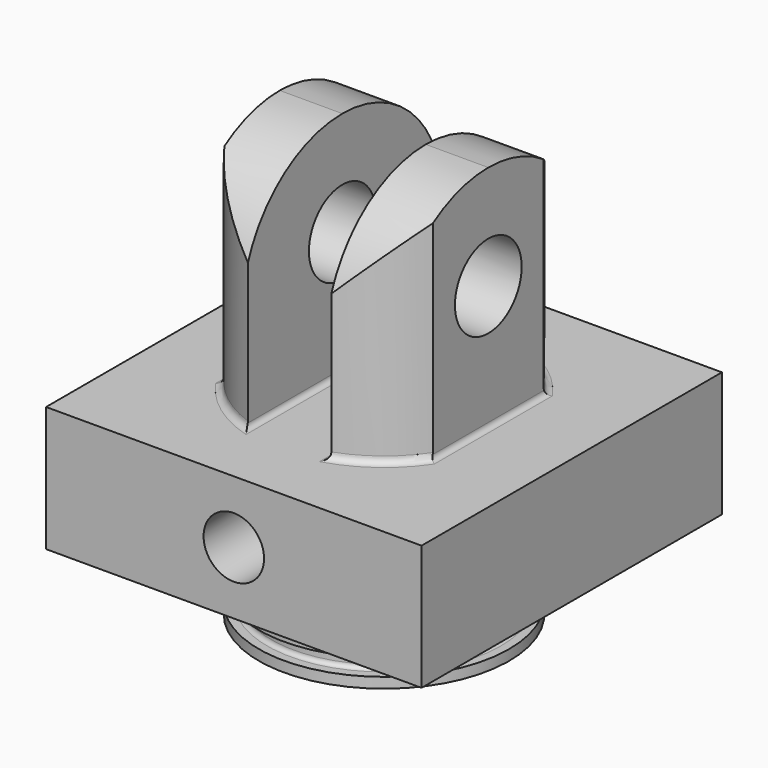
from build123d import *

# Parameters (mm, degrees)
F0_W           = 90
F0_H           = 90
F1_DEPTH       = 102.5
F6_D           = 48
F6_DEPTH       = 25
F6_TIP         = 14.4206548567
F8_DEPTH       = 45.001
F8_DEPTH_BACK  = 45.001
F9_R           = 10
F10_DEPTH      = 25
F10_DEPTH_BACK = 25
F12_D          = 10.5
F12_DEPTH      = 20
F12_TIP        = 3.1545182499
F14_D          = 3
F14_DEPTH      = 45
F14_TIP        = 0.9012909285
F15_D          = 14.5
F15_DEPTH      = 16
F15_TIP        = 4.3562394879


with BuildPart() as f1:
    # F0 (on Top) → F1 (new body)
    with BuildSketch(Plane.XY):
        Rectangle(F0_W, F0_H)
    extrude(amount=F1_DEPTH)

    # F3 (on 3pt) → F4 (revolve, cut)
    with BuildSketch(Plane(origin=(0, 0, 0), x_dir=(0.7071067812, 0.7071067812, 0), z_dir=(0.7071067812, -0.7071067812, 0))):
        with BuildLine():
            Line((-30, 102.5), (-63.6396103068, 102.5))
            Line((-63.6396103068, 102.5), (-63.6396103068, 47.5))
            Line((-63.6396103068, 47.5), (-31.6, 47.5))
            ThreePointArc((-31.6, 47.5), (-30.4686291501, 47.9686291501), (-30, 49.1))
            Line((-30, 49.1), (-30, 102.5))
        make_face()
        with BuildLine():
            Line((-63.6396103068, 17.5), (-63.6396103068, 0))
            Line((-63.6396103068, 0), (-30, 0))
            Line((-30, 0), (-30, 2.5))
            Line((-30, 2.5), (-28, 2.5))
            ThreePointArc((-28, 2.5), (-27.2928932188, 2.7928932188), (-27, 3.5))
            Line((-27, 3.5), (-27, 5.5))
            ThreePointArc((-27, 5.5), (-27.2928932188, 6.2071067812), (-28, 6.5))
            Line((-28, 6.5), (-30, 6.5))
            Line((-30, 6.5), (-30, 15.9))
            ThreePointArc((-30, 15.9), (-30.4686291501, 17.0313708499), (-31.6, 17.5))
            Line((-31.6, 17.5), (-63.6396103068, 17.5))
        make_face()
    revolve(axis=Axis((0, 0, 62.0171971386), (0, 0, 1)), mode=Mode.SUBTRACT)

    # F6
    with Locations(Plane(origin=(0, 0, 0), x_dir=(1, 0, 0), z_dir=(0, 0, -1))):
        with Locations((0, 0)):
            Hole(F6_D / 2, depth=F6_DEPTH)
            with Locations((0, 0, -(F6_DEPTH + F6_TIP / 2))):  # 118° drill point
                Cone(0, F6_D / 2, F6_TIP, mode=Mode.SUBTRACT)

    # F7 (on Front) → F8 (cut, two sides)
    with BuildSketch(Plane.XZ) as f8_sk:
        with BuildLine():
            Line((-45, 102.5), (-45, 47.5))
            Line((-45, 47.5), (-26.2, 47.5))
            ThreePointArc((-26.2, 47.5), (-25.3514718626, 47.8514718626), (-25, 48.7))
            Line((-25, 48.7), (-25, 102.5))
            Line((-25, 102.5), (-45, 102.5))
        make_face()
        with BuildLine():
            Line((-8.8, 47.5), (8.8, 47.5))
            ThreePointArc((8.8, 47.5), (9.6485281374, 47.8514718626), (10, 48.7))
            Line((10, 48.7), (10, 102.5))
            Line((10, 102.5), (-10, 102.5))
            Line((-10, 102.5), (-10, 48.7))
            ThreePointArc((-10, 48.7), (-9.6485281374, 47.8514718626), (-8.8, 47.5))
        make_face()
        with BuildLine():
            Line((26.2, 47.5), (45, 47.5))
            Line((45, 47.5), (45, 102.5))
            Line((45, 102.5), (25, 102.5))
            Line((25, 102.5), (25, 48.7))
            ThreePointArc((25, 48.7), (25.3514718626, 47.8514718626), (26.2, 47.5))
        make_face()
    extrude(amount=-F8_DEPTH, mode=Mode.SUBTRACT)
    extrude(f8_sk.sketch, amount=F8_DEPTH_BACK, mode=Mode.SUBTRACT)

    # F9 (on Right) → F10 (cut, two sides)
    with BuildSketch(Plane.YZ) as f10_sk:
        with BuildLine():
            ThreePointArc((-28.2842712475, 82.5), (-17.3205080757, 96.9948974278), (0, 102.5))
            Line((0, 102.5), (-28.2842712475, 102.5))
            Line((-28.2842712475, 102.5), (-28.2842712475, 82.5))
        make_face()
        with BuildLine():
            ThreePointArc((0, 102.5), (17.3205080757, 96.9948974278), (28.2842712475, 82.5))
            Line((28.2842712475, 82.5), (28.2842712475, 102.5))
            Line((28.2842712475, 102.5), (0, 102.5))
        make_face()
        with Locations((0, 77.5)):
            Circle(F9_R)
    extrude(amount=-F10_DEPTH, mode=Mode.SUBTRACT)
    extrude(f10_sk.sketch, amount=F10_DEPTH_BACK, mode=Mode.SUBTRACT)

    # F12
    with Locations(Plane(origin=(0, 0, 17.5), x_dir=(1, 0, 0), z_dir=(0, 0, -1))):
        with Locations((-31.8198051534, -31.8198051534), (-31.8198051534, 31.8198051534), (31.8198051534, 31.8198051534), (31.8198051534, -31.8198051534)):
            Hole(F12_D / 2, depth=F12_DEPTH)
            with Locations((0, 0, -(F12_DEPTH + F12_TIP / 2))):  # 118° drill point
                Cone(0, F12_D / 2, F12_TIP, mode=Mode.SUBTRACT)

    # F14
    with Locations(Plane.XZ.offset(45)):
        with Locations((0, 32.5)):
            Hole(F14_D / 2, depth=F14_DEPTH)
            with Locations((0, 0, -(F14_DEPTH + F14_TIP / 2))):  # 118° drill point
                Cone(0, F14_D / 2, F14_TIP, mode=Mode.SUBTRACT)

    # F15
    with Locations(Plane.XZ.offset(45)):
        with Locations((0, 32.5)):
            Hole(F15_D / 2, depth=F15_DEPTH)
            with Locations((0, 0, -(F15_DEPTH + F15_TIP / 2))):  # 118° drill point
                Cone(0, F15_D / 2, F15_TIP, mode=Mode.SUBTRACT)


solid = f1.part
